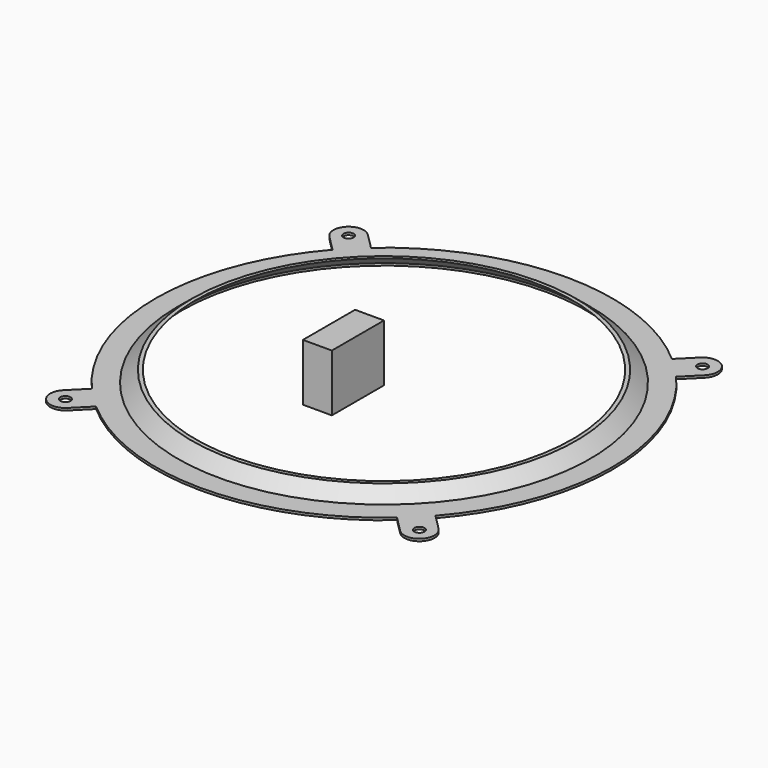
from build123d import *

# Parameters (mm, degrees)
F0_R     = 2.2355653833
F1_DEPTH = 1
F0_W     = 12.6626430313
F0_H     = 28.5447680519
F2_DEPTH = 25
F3_COUNT = 4


with BuildPart() as f1:
    # F0 (on Top) → F1 (new body)
    with BuildSketch(Plane.XY):
        with BuildLine():
            ThreePointArc((-43.0423502661, 12.1621607931), (19.5402510681, -13.9953138384), (45.2967051651, -76.7440233168))
            Line((45.2967051651, -76.7440233168), (56.6818586237, -76.7804522051))
            ThreePointArc((56.6818586237, -76.7804522051), (50.341316948, -41.4161037252), (31.9118412468, -10.5746699465))
            Line((31.9118412468, -10.5746699465), (38.8500688052, -3.6364423881))
            ThreePointArc((38.8500688052, -3.6364423881), (38.8500688052, 5.7155244332), (29.4981019839, 5.7155244332))
            Line((29.4981019839, 5.7155244332), (22.5598744256, -1.2227031252))
            ThreePointArc((22.5598744256, -1.2227031252), (-7.9827966327, 17.0944506419), (-43.0075501886, 23.5473194501))
            Line((-43.0075501886, 23.5473194501), (-43.0139454585, 21.0395410226))
            Line((-43.0139454585, 21.0395410226), (-43.0423502661, 12.1621607931))
        make_face()
        with Locations((34.1740853946, 1.0395410226)):
            Circle(F0_R, mode=Mode.SUBTRACT)
    extrude(amount=F1_DEPTH)

    # F3: F1 ×4 about axis
    f3_axis = Axis((-43.3259146054, -76.4604589774, 12.5), (0, 0, -1))


with BuildPart() as f2:
    # F0 (on Top) → F2 (new body)
    with BuildSketch(Plane.XY):
        with Locations((-49.6572361211, -90.7328430034)):
            Rectangle(F0_W, F0_H)
    extrude(amount=F2_DEPTH)


with BuildPart() as f1_1:
    add(f1.part)
    for i in range(1, F3_COUNT):
        add(f1.part.rotate(f3_axis, i * 360 / F3_COUNT))

    # F4 (on face) → F5 (revolve)
    with BuildSketch(Plane(origin=(21.2432555966, -21.2432555966, 0), x_dir=(0.7071067812, 0.7071067812, 0), z_dir=(0.7071067812, -0.7071067812, 0))):
        Polygon((3.6326618865, 1), (5.3326618865, 1), (-0.7844645523, 6), (-2.4844645523, 6), align=None)
    revolve(axis=Axis((-43.3259146054, -76.4604589774, 12.5), (0, 0, -1)))


solid = Compound([f2.part, f1_1.part])
